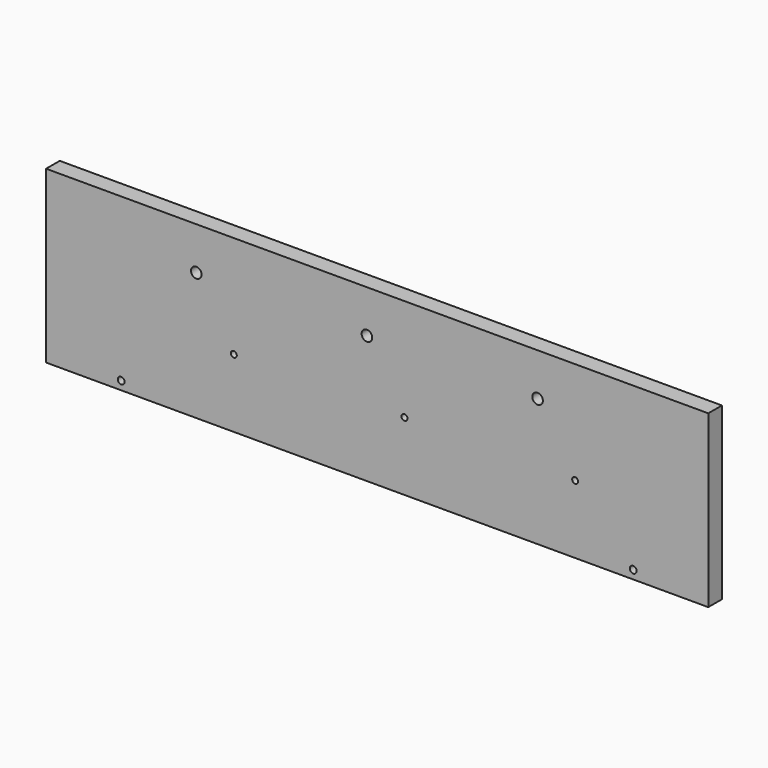
from build123d import *

# Parameters (mm, degrees)
F0_W     = 388
F0_H     = 100
F0_R     = 2
F0_R_2   = 1.75
F1_DEPTH = 10
F2_R     = 3.1
F3_DEPTH = 25


with BuildPart() as f1:
    # F0 (on Front) → F1 (new body)
    with BuildSketch(Plane.XZ):
        Rectangle(F0_W, F0_H)
        with Locations((-150, -45)):
            Circle(F0_R, mode=Mode.SUBTRACT)
        with Locations((-84, -10)):
            Circle(F0_R_2, mode=Mode.SUBTRACT)
        with Locations((150, -45)):
            Circle(F0_R, mode=Mode.SUBTRACT)
        with Locations((16, -10)):
            Circle(F0_R_2, mode=Mode.SUBTRACT)
        with Locations((116, -10)):
            Circle(F0_R_2, mode=Mode.SUBTRACT)
    extrude(amount=F1_DEPTH)

    # F2 (on face) → F3 (cut)
    with BuildSketch(Plane.XZ.offset(10)):
        with Locations((-6, 25)):
            Circle(F2_R)
        with Locations((94, 25)):
            Circle(F2_R)
        with Locations((-106, 25)):
            Circle(F2_R)
    extrude(amount=-F3_DEPTH, mode=Mode.SUBTRACT)


solid = f1.part
